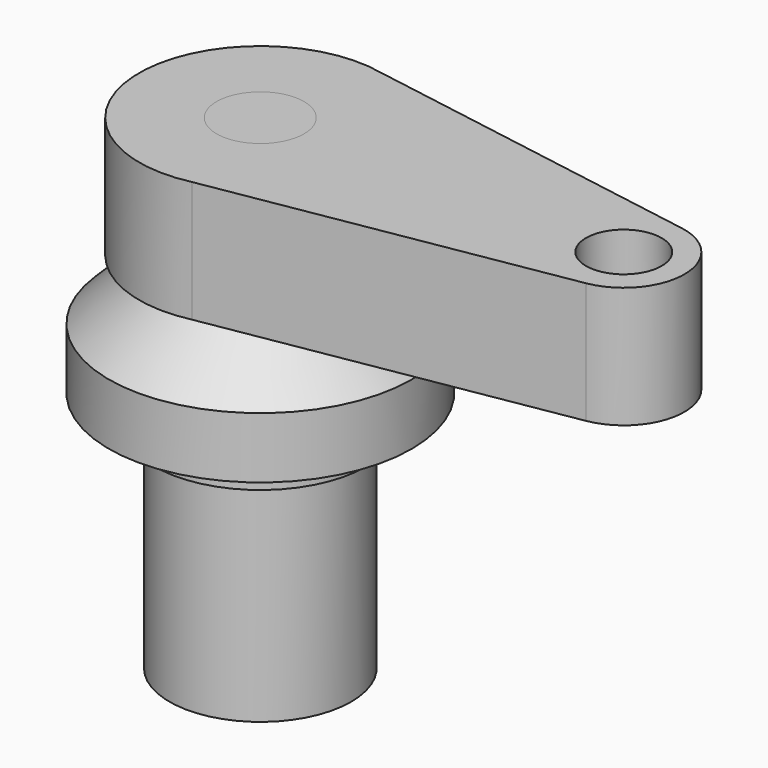
from build123d import *

# Parameters (mm, degrees)
F0_W     = 9.169884
F0_H     = 25.4
F3_R     = 9.169884
F3_R_2   = 7.9375
F4_DEPTH = 25.4


with BuildPart() as f1:
    # F0 (on Front) → F1 (revolve)
    with BuildSketch(Plane.XZ):
        Polygon((19.152567, 76.2), (9.576284, 76.2), (15.875, 69.985268), (15.875, 6.485268), (0, 6.485268), (0, 0), (19.05, 0), (19.05, 44.450001), (22.225, 44.450001), (22.225, 50.800001), (31.75, 50.800001), (31.75, 63.602567), align=None)
    revolve(axis=Axis((0, 0, 82.310471), (0, 0, 1)))


with BuildPart() as f2:
    # F0 (on Front) → F2 (revolve)
    with BuildSketch(Plane.XZ):
        Polygon((9.169884, 16.984778), (9.169884, 76.2), (0, 76.2), (0, 12.835268), (15.4686, 12.835268), (15.4686, 16.984778), align=None)
        with Locations((4.584942, 88.9)):
            Rectangle(F0_W, F0_H)
    revolve(axis=Axis((0, 0, 104.282323), (0, 0, 1)))


with BuildPart() as f4:
    # F3 (on face) → F4 (new body, through all)
    with BuildSketch(Plane.XY.offset(101.6)):
        with BuildLine():
            Line((78.310685, 12.523378), (5.546418, 24.787038))
            ThreePointArc((5.546418, 24.787038), (-25.4, 0), (5.546418, -24.787038))
            Line((5.546418, -24.787038), (78.310685, -12.523378))
            ThreePointArc((78.310685, -12.523378), (88.9, 0), (78.310685, 12.523378))
        make_face()
        Circle(F3_R, mode=Mode.SUBTRACT)
        with Locations((76.2, 0)):
            Circle(F3_R_2, mode=Mode.SUBTRACT)
    extrude(amount=-F4_DEPTH)


solid = Compound([f1.part, f2.part, f4.part])
